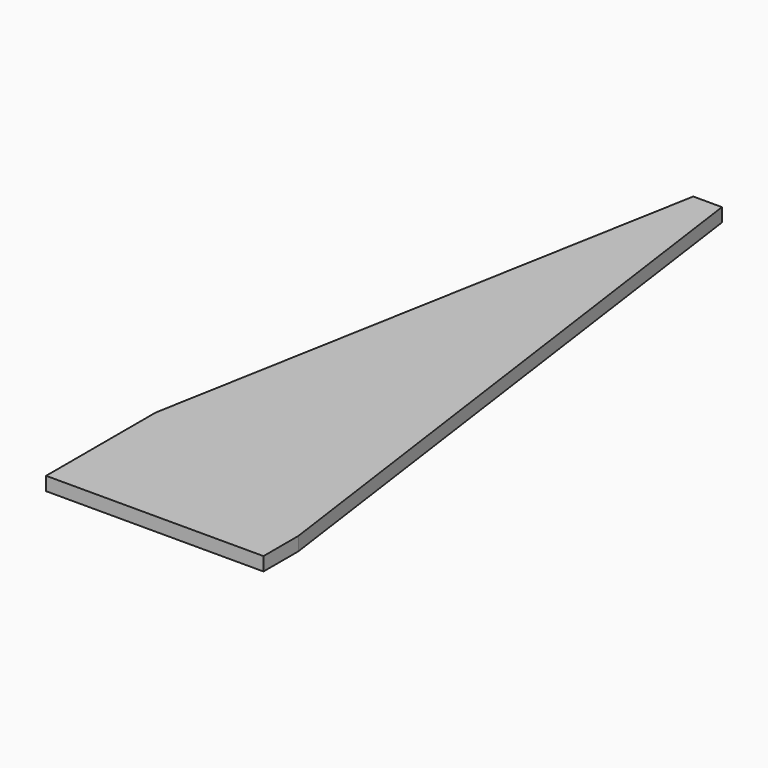
from build123d import *

# Parameters (mm, degrees)
F0_W     = 24.031691
F0_H     = 75.669016
F2_DEPTH = 1.5
F3_DEPTH = 2


with BuildPart() as f2:
    # F0 (on Top) → F2 (new body)
    with BuildSketch(Plane.XY):
        with Locations((-12.015845, -16.267607)):
            Rectangle(F0_W, F0_H)
    extrude(amount=F2_DEPTH)

    # F1 (on face) → F3 (cut)
    with BuildSketch(Plane.XY):
        Polygon((-37.438115, 26.900515), (-25.913347, -49.294673), (-12.052396, 26.900515), align=None)
        Polygon((-10.596756, 26.900515), (0, -49.294673), (15.547586, 26.900515), align=None)
    extrude(amount=F3_DEPTH, mode=Mode.SUBTRACT)


solid = f2.part
